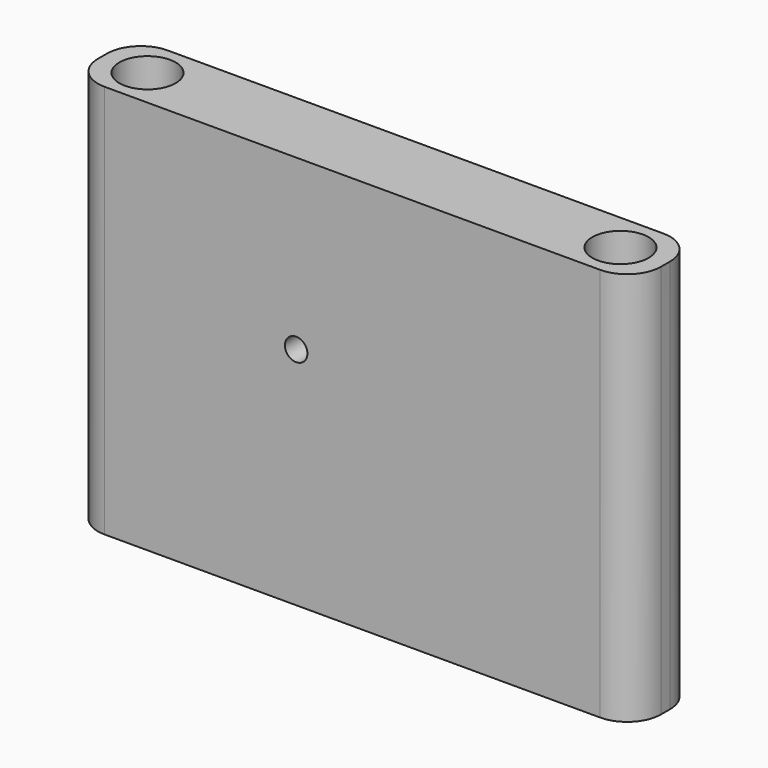
from build123d import *

# Parameters (mm, degrees)
F0_W     = 50
F0_H     = 7
F1_DEPTH = 35
F2_R     = 2.5
F3_DEPTH = 35
F4_R     = 3
F5_R     = 1
F6_DEPTH = 25


with BuildPart() as f1:
    # F0 (on Top) → F1 (new body)
    with BuildSketch(Plane.XY):
        with Locations((0.394545, 0)):
            Rectangle(F0_W, F0_H)
    extrude(amount=F1_DEPTH)

    # F2 (on face) → F3 (cut, through all)
    with BuildSketch(Plane.XY.offset(35)):
        with Locations((-20.605455, 0)):
            Circle(F2_R)
        with Locations((21.394545, 0)):
            Circle(F2_R)
    extrude(amount=-F3_DEPTH, mode=Mode.SUBTRACT)

    # F4
    f4_edges = [f1.edges().sort_by_distance(p)[0] for p in [
        (25.394545, -3.5, 17.5),
        (25.394545, 3.5, 17.5),
        (-24.605455, -3.5, 17.5),
        (-24.605455, 3.5, 17.5),
    ]]
    fillet(f4_edges, radius=F4_R)

    # F5 (on face) → F6 (cut)
    with BuildSketch(Plane.XZ.offset(3.5)):
        with Locations((-4.605455, 20)):
            Circle(F5_R)
    extrude(amount=-F6_DEPTH, mode=Mode.SUBTRACT)


solid = f1.part
